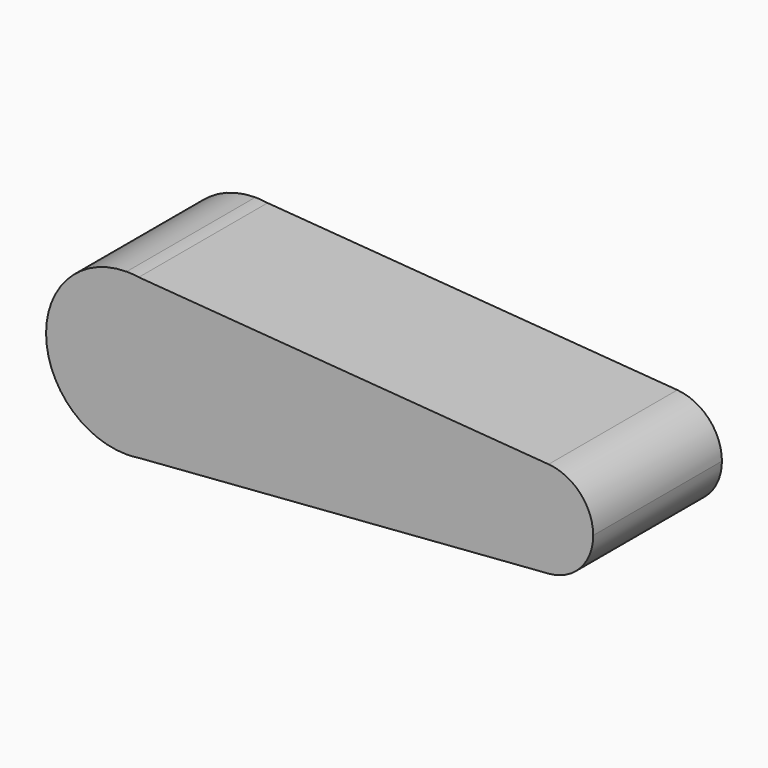
from build123d import *

# Parameters (mm, degrees)
F1_DEPTH = 50


with BuildPart() as f1:
    # F0 (on Front) → F1 (new body)
    with BuildSketch(Plane.XZ):
        with BuildLine():
            Line((3.806931, 24.708445), (0, 25))
            ThreePointArc((0, 25), (-25, 0), (0, -25))
            Line((0, -25), (3.806931, -24.708445))
            ThreePointArc((3.806931, -24.708445), (18.975949, -16.276159), (25, 0))
            ThreePointArc((25, 0), (18.975949, 16.276159), (3.806931, 24.708445))
        make_face()
        with BuildLine():
            ThreePointArc((3.806931, 24.708445), (1.909039, 24.927005), (0, 25))
            Line((0, 25), (3.806931, 24.708445))
        make_face()
        with BuildLine():
            Line((3.806931, -24.708445), (0, -25))
            ThreePointArc((0, -25), (1.909039, -24.927005), (3.806931, -24.708445))
        make_face()
        with BuildLine():
            Line((131.145424, 14.956203), (3.806931, 24.708445))
            ThreePointArc((3.806931, 24.708445), (18.975949, 16.276159), (25, 0))
            ThreePointArc((25, 0), (18.975949, -16.276159), (3.806931, -24.708445))
            Line((3.806931, -24.708445), (131.145424, -14.956203))
            ThreePointArc((131.145424, -14.956203), (115, 0), (131.145424, 14.956203))
        make_face()
        with BuildLine():
            ThreePointArc((145, 0), (141.004121, 10.193592), (131.145424, 14.956203))
            ThreePointArc((131.145424, 14.956203), (115, 0), (131.145424, -14.956203))
            ThreePointArc((131.145424, -14.956203), (141.004121, -10.193592), (145, 0))
        make_face()
    extrude(amount=F1_DEPTH)


solid = f1.part
